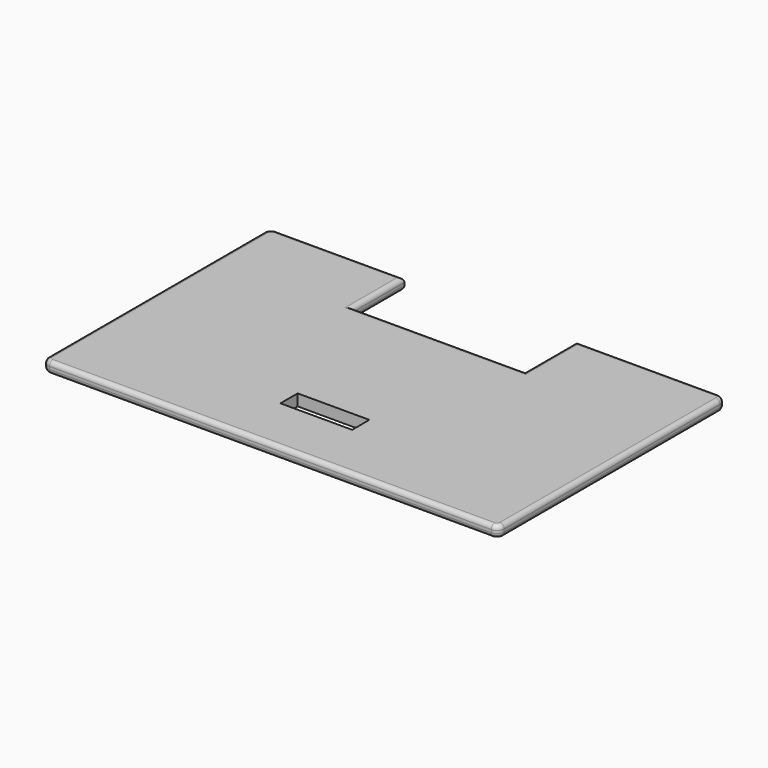
from build123d import *

# Parameters (mm, degrees)
SKETCH006_W     = 31.8
SKETCH006_H     = 19.8
PAD001_DEPTH    = 0.8
SKETCH007_W     = 12
SKETCH007_H     = 4.5
POCKET005_DEPTH = 0.801
SKETCH008_W     = 5
SKETCH008_H     = 1.5
POCKET006_DEPTH = 0.801
FILLET002_R     = 0.5
FILLET003_R     = 0.3


with BuildPart() as part:
    # Sketch006 → Pad001 (new body)
    with BuildSketch(Plane.XY):
        Rectangle(SKETCH006_W, SKETCH006_H)
    extrude(amount=PAD001_DEPTH)

    # Sketch007 (on Face6 of Pad001) → Pocket005 (cut, through all)
    with BuildSketch(Plane.XY.offset(0.8)):
        with Locations((-0.5, 7.65)):
            Rectangle(SKETCH007_W, SKETCH007_H)
    extrude(amount=-POCKET005_DEPTH, mode=Mode.SUBTRACT)

    # Sketch008 (on Face4 of Pocket005) → Pocket006 (cut, through all)
    with BuildSketch(Plane.XY.offset(0.8)):
        with Locations((0, -5.15)):
            Rectangle(SKETCH008_W, SKETCH008_H)
    extrude(amount=-POCKET006_DEPTH, mode=Mode.SUBTRACT)

    # Fillet002
    fillet002_edges = [part.edges().sort_by_distance(p)[0] for p in [
        (15.9, -9.9, 0.4),
        (15.9, 9.9, 0.4),
        (-15.9, 9.9, 0.4),
        (-15.9, -9.9, 0.4),
    ]]
    fillet(fillet002_edges, radius=FILLET002_R)

    # Fillet003
    fillet003_edges = [part.edges().sort_by_distance(p)[0] for p in [
        (-15.9, 0, 0.8),
        (-15.9, 0, 0),
        (-10.95, 9.9, 0),
        (-10.95, 9.9, 0.8),
        (-0.5, 5.4, 0.8),
        (-0.5, 5.4, 0),
        (5.5, 7.65, 0),
        (5.5, 7.65, 0.8),
        (-6.5, 7.65, 0.8),
        (10.45, 9.9, 0),
        (10.45, 9.9, 0.8),
        (15.9, 0, 0.8),
        (15.9, 0, 0),
        (-6.5, 7.65, 0),
    ]]
    fillet(fillet003_edges, radius=FILLET003_R)


solid = part.part
